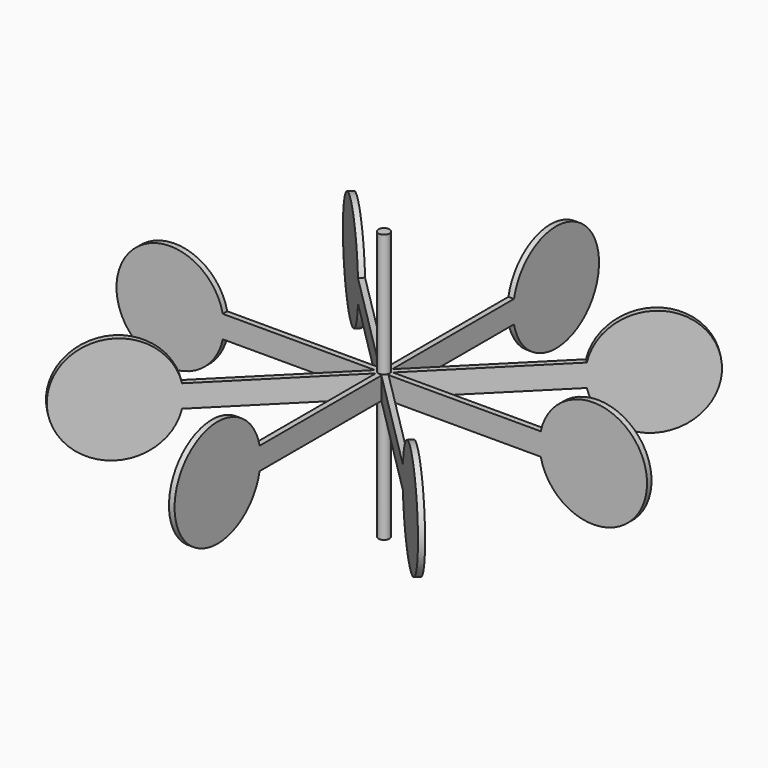
from build123d import *

# Parameters (mm, degrees)
F1_DEPTH = 1.5875
F2_R     = 3.175
F3_DEPTH = 76.2
F4_COUNT = 8
F4_ANGLE = 315


with BuildPart() as f1:
    # F0 (on Front) → F1 (new body, symmetric)
    with BuildSketch(Plane.XZ):
        with BuildLine():
            Line((90.17, 6.35), (0, 6.35))
            Line((0, 6.35), (0, -6.35))
            Line((0, -6.35), (90.17, -6.35))
            ThreePointArc((90.17, -6.35), (150.4612042695, 0), (90.17, 6.35))
        make_face()
    extrude(amount=F1_DEPTH, both=True)

    # F2 (on Top) → F3 (join, symmetric)
    with BuildSketch(Plane.XY):
        Circle(F2_R)
    extrude(amount=F3_DEPTH, both=True)

    # F4: F1 ×8 about axis
    f4_axis = Axis((0, 0, 0), (0, 0, 1))


with BuildPart() as f1_1:
    add(f1.part)
    for i in range(1, F4_COUNT):
        add(f1.part.rotate(f4_axis, i * F4_ANGLE / (F4_COUNT - 1)))


solid = f1_1.part
